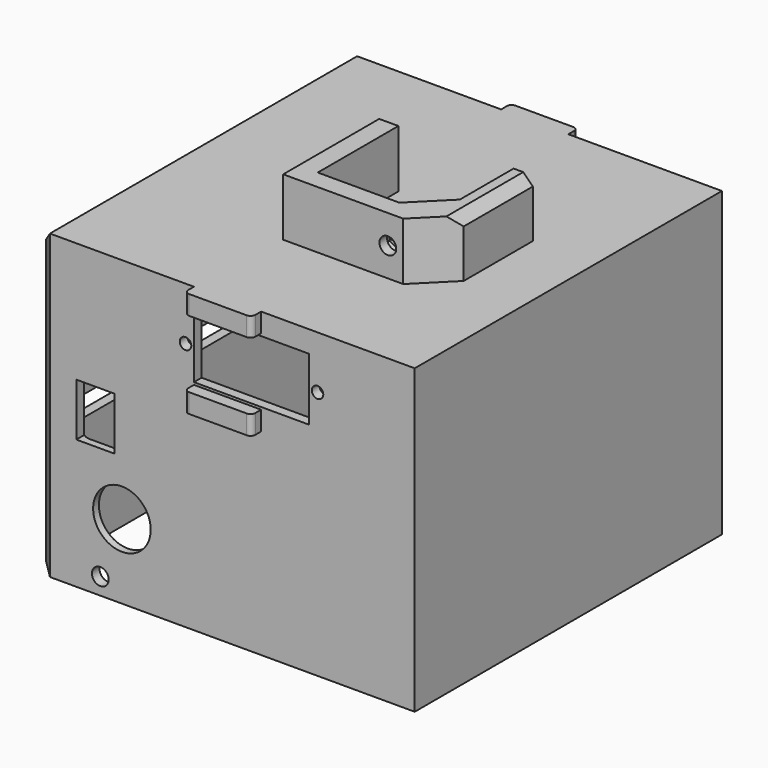
from build123d import *

# Parameters (mm, degrees)
CYLINDER070_R           = 1.75
CYLINDER070_DEPTH       = 20
CYLINDER070_PITCH_ANGLE = -90
PRISM_DEPTH             = 10
PRISM_PITCH_ANGLE       = -90
CYLINDER069_R           = 1
CYLINDER069_DEPTH       = 20
CYLINDER069_PITCH_ANGLE = -90
CYLINDER068_R           = 1
CYLINDER068_DEPTH       = 20
CYLINDER068_PITCH_ANGLE = -90
PAD008_DEPTH            = 13
CHAMFER106_SIZE         = 7
CUT094_PLACEMENT_ANGLE  = -90
CHAMFER107_SIZE         = 2
BOX053_W                = 7
BOX053_H                = 17
BOX053_DEPTH            = 15
BOX053_PLACEMENT_ANGLE  = -90
SKETCH011_R             = 1.2
SKETCH011_W             = 24
SKETCH011_H             = 13
PAD006_DEPTH            = 140
SKETCH009_W             = 60
SKETCH009_H             = 4.25
PAD004_DEPTH            = 45
BOX051_W                = 14
BOX051_H                = 3
BOX051_DEPTH            = 4
BOX050_W                = 14
BOX050_H                = 3
BOX050_DEPTH            = 4
BOX049_W                = 14
BOX049_H                = 3
BOX049_DEPTH            = 4
BOX020_W                = 8
BOX020_H                = 24
BOX020_DEPTH            = 11
CYLINDER026_R           = 4
CYLINDER026_DEPTH       = 31
CYLINDER026_ROLL_ANGLE  = 90
CYLINDER016_R           = 6
CYLINDER016_DEPTH       = 31
CYLINDER016_ROLL_ANGLE  = 90
CYLINDER015_R           = 1.75
CYLINDER015_DEPTH       = 31
CYLINDER015_ROLL_ANGLE  = 90
CYLINDER014_R           = 1.75
CYLINDER014_DEPTH       = 31
CYLINDER014_ROLL_ANGLE  = 90
BOX047_W                = 17
BOX047_H                = 77
BOX047_DEPTH            = 49
FILLET018014_R          = 2
BOX019_W                = 76
BOX019_H                = 76
BOX019_DEPTH            = 66
FILLET006_R             = 3.5
BOX048_W                = 80
BOX048_H                = 80
BOX048_DEPTH            = 63
CHAMFER103_SIZE         = 4
BOX052_W                = 14
BOX052_H                = 3
BOX052_DEPTH            = 4
FILLET018013002_R       = 1


with BuildPart() as cylinder070:
    # Cylinder070 → Cylinder070 (new body)
    with BuildSketch(Plane.XY):
        Circle(CYLINDER070_R)
    extrude(amount=CYLINDER070_DEPTH)


with BuildPart() as cylinder070_1:
    # Cylinder070 pitch: moved
    add(cylinder070.part.rotate(Axis((0, 0, 0), (0, 1, 0)), CYLINDER070_PITCH_ANGLE))


with BuildPart() as cylinder070_2:
    # Cylinder070 placement: moved
    add(cylinder070_1.part.moved(Location((-7, 12.8, 202))))


with BuildPart() as fusion053:
    # Prism → Prism (new body)
    with BuildSketch(Plane.XY):
        Polygon((3.3, 0), (1.65, 2.857884), (-1.65, 2.857884), (-3.3, 0), (-1.65, -2.857884), (1.65, -2.857884), align=None)
    extrude(amount=PRISM_DEPTH)


with BuildPart() as fusion053_1:
    # Prism pitch: moved
    add(fusion053.part.rotate(Axis((0, 0, 0), (0, 1, 0)), PRISM_PITCH_ANGLE))


with BuildPart() as fusion053_2:
    # Prism placement: moved
    add(fusion053_1.part.moved(Location((-16, 12.8, 202))))

    # Fusion053: union Cylinder070
    add(cylinder070_2.part)


with BuildPart() as cylinder095:
    # Cylinder069 → Cylinder069 (new body)
    with BuildSketch(Plane.XY):
        Circle(CYLINDER069_R)
    extrude(amount=CYLINDER069_DEPTH)


with BuildPart() as cylinder095_1:
    # Cylinder069 pitch: moved
    add(cylinder095.part.rotate(Axis((0, 0, 0), (0, 1, 0)), CYLINDER069_PITCH_ANGLE))


with BuildPart() as cylinder095_2:
    # Cylinder069 placement: moved
    add(cylinder095_1.part.moved(Location((-33, 21, 202))))


with BuildPart() as fusion052:
    # Cylinder068 → Cylinder068 (new body)
    with BuildSketch(Plane.XY):
        Circle(CYLINDER068_R)
    extrude(amount=CYLINDER068_DEPTH)


with BuildPart() as fusion052_1:
    # Cylinder068 pitch: moved
    add(fusion052.part.rotate(Axis((0, 0, 0), (0, 1, 0)), CYLINDER068_PITCH_ANGLE))


with BuildPart() as fusion052_2:
    # Cylinder068 placement: moved
    add(fusion052_1.part.moved(Location((-33, -7, 202))))

    # Fusion052: union Cylinder095
    add(cylinder095_2.part)


with BuildPart() as fusion052_3:
    # Fusion052 placement: moved
    add(fusion052_2.part.moved(Location((5, 0, 0))))


with BuildPart() as chamfer107:
    # Sketch013 → Pad008 (new body)
    with BuildSketch(Plane.XY.offset(195)):
        Polygon((-39, 19), (-39, 23), (-14, 23), (-14, -9), (-39, -9), (-39, -5), (-18, -5), (-18, 19), align=None)
    extrude(amount=PAD008_DEPTH)

    # Chamfer106
    chamfer106_edges = [chamfer107.edges().sort_by_distance(p)[0] for p in [
        (-14, 23, 201.5),
        (-18, 19, 201.5),
    ]]
    chamfer(chamfer106_edges, length=CHAMFER106_SIZE)

    # Cut093: cut Fusion052
    add(fusion052_3.part, mode=Mode.SUBTRACT)

    # Cut094: cut Fusion053
    add(fusion053_2.part, mode=Mode.SUBTRACT)


with BuildPart() as chamfer107_1:
    # Cut094 placement: moved
    add(chamfer107.part.moved(Location((34, 4, -65))).rotate(Axis((34, 4, -65), (0, 0, 1)), CUT094_PLACEMENT_ANGLE))

    # Chamfer107
    chamfer107_edges = [chamfer107_1.edges().sort_by_distance(p)[0] for p in [
        (57, 34, 143),
    ]]
    chamfer(chamfer107_edges, length=CHAMFER107_SIZE)


with BuildPart() as chamfer107_2:
    # Chamfer107 placement: moved
    add(chamfer107_1.part.moved(Location((-13, 0, 0))))


with BuildPart() as cube077:
    # Box053 → Box053 (new body)
    with BuildSketch(Plane.XY):
        with Locations((3.5, 8.5)):
            Rectangle(BOX053_W, BOX053_H)
    extrude(amount=BOX053_DEPTH)


with BuildPart() as cube077_1:
    # Box053 placement: moved
    add(cube077.part.moved(Location((16, 29, 120))).rotate(Axis((16, 29, 120), (0, 0, 1)), BOX053_PLACEMENT_ANGLE))


with BuildPart() as pad006:
    # Sketch011 → Pad006 (new body)
    with BuildSketch(Plane(origin=(-0.25, -35, 0), x_dir=(1, 0, 0), z_dir=(0, -1, 0))):
        with Locations((37, 120)):
            Circle(SKETCH011_R)
        with Locations((9.5, 120)):
            Circle(SKETCH011_R)
        with Locations((23.25, 120)):
            Rectangle(SKETCH011_W, SKETCH011_H)
    extrude(amount=-PAD006_DEPTH)


with BuildPart() as fusion051:
    # Sketch009 → Pad004 (new body)
    with BuildSketch(Plane(origin=(-40, 0, 0), x_dir=(0, -1, 0), z_dir=(-1, 0, 0))):
        with Locations((-36, 119.625)):
            Rectangle(SKETCH009_W, SKETCH009_H)
        with Locations((-36, 111.125)):
            Rectangle(SKETCH009_W, SKETCH009_H)
        with Locations((-36, 102.625)):
            Rectangle(SKETCH009_W, SKETCH009_H)
        with Locations((-36, 94.125)):
            Rectangle(SKETCH009_W, SKETCH009_H)
    extrude(amount=-PAD004_DEPTH)

    # Fusion051: union Pad006
    add(pad006.part)


with BuildPart() as cubo002:
    # Box051 → Box051 (new body)
    with BuildSketch(Plane(origin=(11, 75.5, 127), x_dir=(1, 0, 0), z_dir=(0, 0, 1))):
        with Locations((7, 1.5)):
            Rectangle(BOX051_W, BOX051_H)
    extrude(amount=BOX051_DEPTH)


with BuildPart() as cubo001:
    # Box050 → Box050 (new body)
    with BuildSketch(Plane(origin=(11, -6.5, 127), x_dir=(1, 0, 0), z_dir=(0, 0, 1))):
        with Locations((7, 1.5)):
            Rectangle(BOX050_W, BOX050_H)
    extrude(amount=BOX050_DEPTH)


with BuildPart() as cubo:
    # Box049 → Box049 (new body)
    with BuildSketch(Plane(origin=(11, -6.5, 109), x_dir=(1, 0, 0), z_dir=(0, 0, 1))):
        with Locations((7, 1.5)):
            Rectangle(BOX049_W, BOX049_H)
    extrude(amount=BOX049_DEPTH)


with BuildPart() as cube020:
    # Box020 → Box020 (new body)
    with BuildSketch(Plane(origin=(-13.5, -13, 95), x_dir=(1, 0, 0), z_dir=(0, 0, 1))):
        with Locations((4, 12)):
            Rectangle(BOX020_W, BOX020_H)
    extrude(amount=BOX020_DEPTH)


with BuildPart() as cylinder029:
    # Cylinder026 → Cylinder026 (new body)
    with BuildSketch(Plane.XY):
        Circle(CYLINDER026_R)
    extrude(amount=CYLINDER026_DEPTH)


with BuildPart() as cylinder029_1:
    # Cylinder026 roll: moved
    add(cylinder029.part.rotate(Axis((0, 0, 0), (1, 0, 0)), CYLINDER026_ROLL_ANGLE))


with BuildPart() as cylinder029_2:
    # Cylinder026 placement: moved
    add(cylinder029_1.part.moved(Location((-7, 80, 89.6))))


with BuildPart() as cylinder004:
    # Cylinder016 → Cylinder016 (new body)
    with BuildSketch(Plane.XY):
        Circle(CYLINDER016_R)
    extrude(amount=CYLINDER016_DEPTH)


with BuildPart() as cylinder004_1:
    # Cylinder016 roll: moved
    add(cylinder004.part.rotate(Axis((0, 0, 0), (1, 0, 0)), CYLINDER016_ROLL_ANGLE))


with BuildPart() as cylinder004_2:
    # Cylinder016 placement: moved
    add(cylinder004_1.part.moved(Location((-4, 11, 83.5))))


with BuildPart() as cylinder003:
    # Cylinder015 → Cylinder015 (new body)
    with BuildSketch(Plane.XY):
        Circle(CYLINDER015_R)
    extrude(amount=CYLINDER015_DEPTH)


with BuildPart() as cylinder003_1:
    # Cylinder015 roll: moved
    add(cylinder003.part.rotate(Axis((0, 0, 0), (1, 0, 0)), CYLINDER015_ROLL_ANGLE))


with BuildPart() as cylinder003_2:
    # Cylinder015 placement: moved
    add(cylinder003_1.part.moved(Location((-8.5, 80, 71.5))))


with BuildPart() as cylinder002:
    # Cylinder014 → Cylinder014 (new body)
    with BuildSketch(Plane.XY):
        Circle(CYLINDER014_R)
    extrude(amount=CYLINDER014_DEPTH)


with BuildPart() as cylinder002_1:
    # Cylinder014 roll: moved
    add(cylinder002.part.rotate(Axis((0, 0, 0), (1, 0, 0)), CYLINDER014_ROLL_ANGLE))


with BuildPart() as cylinder002_2:
    # Cylinder014 placement: moved
    add(cylinder002_1.part.moved(Location((-8.5, 11, 71.5))))


with BuildPart() as fusion044:
    # Box047 → Box047 (new body)
    with BuildSketch(Plane(origin=(-14, -2.5, 75), x_dir=(1, 0, 0), z_dir=(0, 0, 1))):
        with Locations((8.5, 38.5)):
            Rectangle(BOX047_W, BOX047_H)
    extrude(amount=BOX047_DEPTH)

    # Fillet018014
    fillet018014_edges = [fusion044.edges().sort_by_distance(p)[0] for p in [
        (-14, -2.5, 99.5),
        (-14, 36, 124),
        (-14, 74.5, 99.5),
        (-14, 36, 75),
        (3, -2.5, 99.5),
        (3, 36, 124),
        (3, 74.5, 99.5),
        (3, 36, 75),
        (-5.5, -2.5, 75),
        (-5.5, -2.5, 124),
        (-5.5, 74.5, 75),
        (-5.5, 74.5, 124),
    ]]
    fillet(fillet018014_edges, radius=FILLET018014_R)

    # Fusion044: union Cube020, Cylinder029, Cylinder004, Cylinder003, Cylinder002
    add(cube020.part)
    add(cylinder029_2.part)
    add(cylinder004_2.part)
    add(cylinder003_2.part)
    add(cylinder002_2.part)


with BuildPart() as fillet006:
    # Box019 → Box019 (new body)
    with BuildSketch(Plane(origin=(-21, -2, 87), x_dir=(1, 0, 0), z_dir=(0, 0, 1))):
        with Locations((38, 38)):
            Rectangle(BOX019_W, BOX019_H)
    extrude(amount=BOX019_DEPTH)

    # Fillet006
    fillet006_edges = [fillet006.edges().sort_by_distance(p)[0] for p in [
        (-21, -2, 120),
        (-21, 36, 153),
        (-21, 74, 120),
        (55, -2, 120),
        (55, 36, 153),
        (55, 74, 120),
        (17, -2, 153),
        (17, 74, 153),
    ]]
    fillet(fillet006_edges, radius=FILLET006_R)


with BuildPart() as fillet006_1:
    # Fillet006 placement: moved
    add(fillet006.part.moved(Location((0, 0, -24))))


with BuildPart() as fusion049:
    # Box048 → Box048 (new body)
    with BuildSketch(Plane(origin=(-23, -4, 68), x_dir=(1, 0, 0), z_dir=(0, 0, 1))):
        with Locations((40, 40)):
            Rectangle(BOX048_W, BOX048_H)
    extrude(amount=BOX048_DEPTH)

    # Chamfer103
    chamfer103_edges = [fusion049.edges().sort_by_distance(p)[0] for p in [
        (-23, -4, 99.5),
        (-23, 36, 131),
        (-23, 76, 99.5),
    ]]
    chamfer(chamfer103_edges, length=CHAMFER103_SIZE)

    # Cut081: cut Fillet006
    add(fillet006_1.part, mode=Mode.SUBTRACT)

    # Cut082: cut Fusion044
    add(fusion044.part, mode=Mode.SUBTRACT)

    # Fusion048: union Cubo
    add(cubo.part)

    # Fusion049: union Cubo001
    add(cubo001.part)


with BuildPart() as obj1:
    # Box052 → Box052 (new body)
    with BuildSketch(Plane(origin=(11, 75.5, 109), x_dir=(1, 0, 0), z_dir=(0, 0, 1))):
        with Locations((7, 1.5)):
            Rectangle(BOX052_W, BOX052_H)
    extrude(amount=BOX052_DEPTH)

    # Fusion050: union Cubo002, Fusion049
    add(cubo002.part)
    add(fusion049.part)

    # Cut092: cut Fusion051
    add(fusion051.part, mode=Mode.SUBTRACT)

    # Fillet018013002
    fillet018013002_edges = [obj1.edges().sort_by_distance(p)[0] for p in [
        (25, 78.5, 111),
        (11, 78.5, 111),
        (11, 78.5, 129),
        (25, 78.5, 129),
        (11, -6.5, 129),
        (25, -6.5, 129),
        (11, -6.5, 111),
        (25, -6.5, 111),
    ]]
    fillet(fillet018013002_edges, radius=FILLET018013002_R)

    # Cut095: cut Cube077
    add(cube077_1.part, mode=Mode.SUBTRACT)

    # Fusion054: union Chamfer107
    add(chamfer107_2.part)


solid = obj1.part
